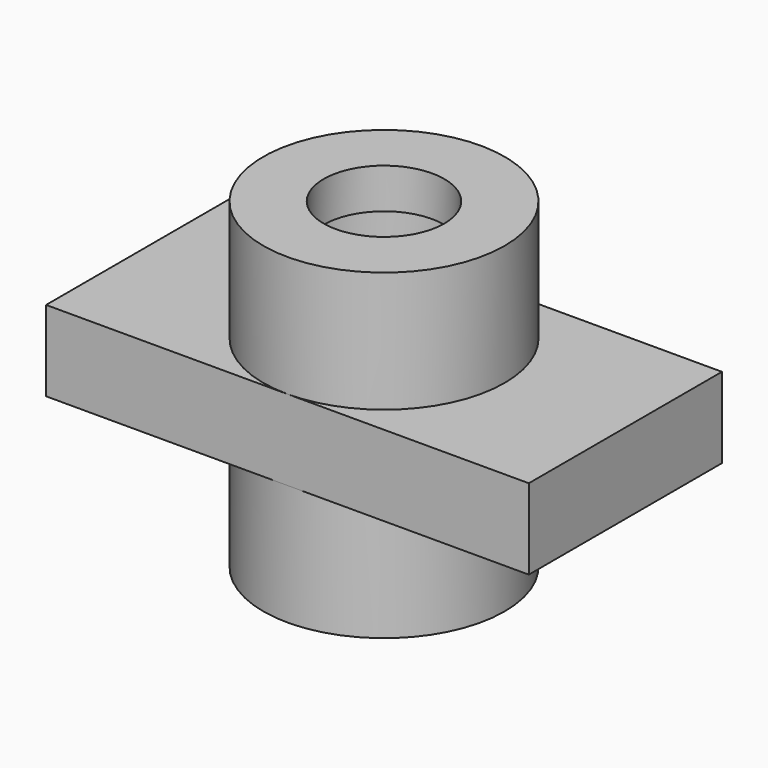
from build123d import *

# Parameters (mm, degrees)
F1_DEPTH      = 12.7
F0_R          = 12.7
F0_R_2        = 9.525
F2_DEPTH      = 31.75
F2_DEPTH_BACK = 19.05
F3_START      = 19.05
F3_DEPTH      = 6.35


with BuildPart() as f1:
    # F0 (on Top) → F1 (new body)
    with BuildSketch(Plane.XY):
        with BuildLine():
            Line((0, 38.1), (0, 0))
            Line((0, 0), (38.1, 0))
            ThreePointArc((38.1, 0), (19.05, 19.05), (38.1, 38.1))
            Line((38.1, 38.1), (0, 38.1))
        make_face()
    extrude(amount=F1_DEPTH)



with BuildPart() as f1b:
    # F0 (on Top) → F1, piece 2 (new body)
    with BuildSketch(Plane.XY):
        with BuildLine():
            ThreePointArc((57.15, 19.05), (51.5703841816, 5.5796158184), (38.1, 0))
            Line((38.1, 0), (76.2, 0))
            Line((76.2, 0), (76.2, 38.1))
            Line((76.2, 38.1), (38.1, 38.1))
            ThreePointArc((38.1, 38.1), (51.5703841816, 32.5203841816), (57.15, 19.05))
        make_face()
    extrude(amount=F1_DEPTH)


with BuildPart() as f1_1:
    add(f1.part)

    add(f1b.part)  # F2 merges F1b
    # F0 (on Top) → F2 (join, two sides)
    with BuildSketch(Plane.XY) as f2_sk:
        with BuildLine():
            ThreePointArc((38.1, 38.1), (19.05, 19.05), (38.1, 0))
            ThreePointArc((38.1, 0), (51.5703841816, 5.5796158184), (57.15, 19.05))
            ThreePointArc((57.15, 19.05), (51.5703841816, 32.5203841816), (38.1, 38.1))
        make_face()
        with Locations((38.1, 19.05)):
            Circle(F0_R, mode=Mode.SUBTRACT)
        with Locations((38.1, 19.05)):
            Circle(F0_R)
        with Locations((38.1, 19.05)):
            Circle(F0_R_2, mode=Mode.SUBTRACT)
    extrude(amount=F2_DEPTH)
    extrude(f2_sk.sketch, amount=-F2_DEPTH_BACK)

    # F0 (on Top) → F3 (cut)
    with BuildSketch(Plane.XY.offset(F3_START)):
        with Locations((38.1, 19.05)):
            Circle(F0_R)
        with Locations((38.1, 19.05)):
            Circle(F0_R_2, mode=Mode.SUBTRACT)
    extrude(amount=F3_DEPTH, mode=Mode.SUBTRACT)


solid = f1_1.part
